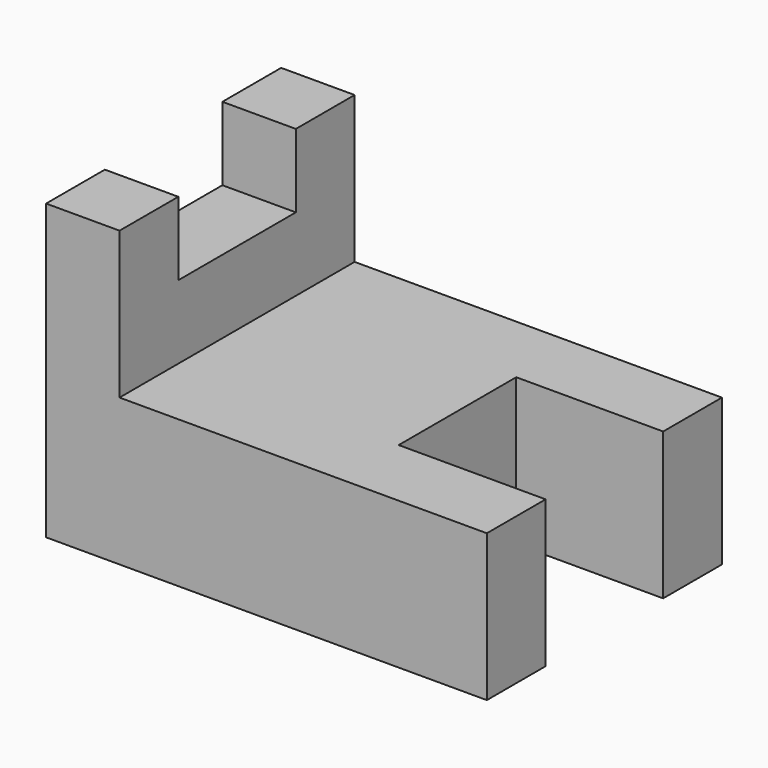
from build123d import *

# Parameters (mm, degrees)
F1_DEPTH = 25.4
F2_W     = 12.7
F2_H     = 12.7
F3_DEPTH = 12.7
F4_W     = 12.7
F4_H     = 6.35
F5_DEPTH = 6.35


with BuildPart() as f1:
    # F0 (on Front) → F1 (new body)
    with BuildSketch(Plane.XZ):
        Polygon((0, 25.4), (0, 0), (38.1, 0), (38.1, 12.7), (6.35, 12.7), (6.35, 25.4), align=None)
    extrude(amount=F1_DEPTH)

    # F2 (on face) → F3 (cut)
    with BuildSketch(Plane.YZ.offset(38.1)):
        with Locations((-12.7, 6.35)):
            Rectangle(F2_W, F2_H)
    extrude(amount=-F3_DEPTH, mode=Mode.SUBTRACT)

    # F4 (on face) → F5 (cut)
    with BuildSketch(Plane.YZ.offset(6.35)):
        with Locations((-12.7, 22.225)):
            Rectangle(F4_W, F4_H)
    extrude(amount=-F5_DEPTH, mode=Mode.SUBTRACT)


solid = f1.part
